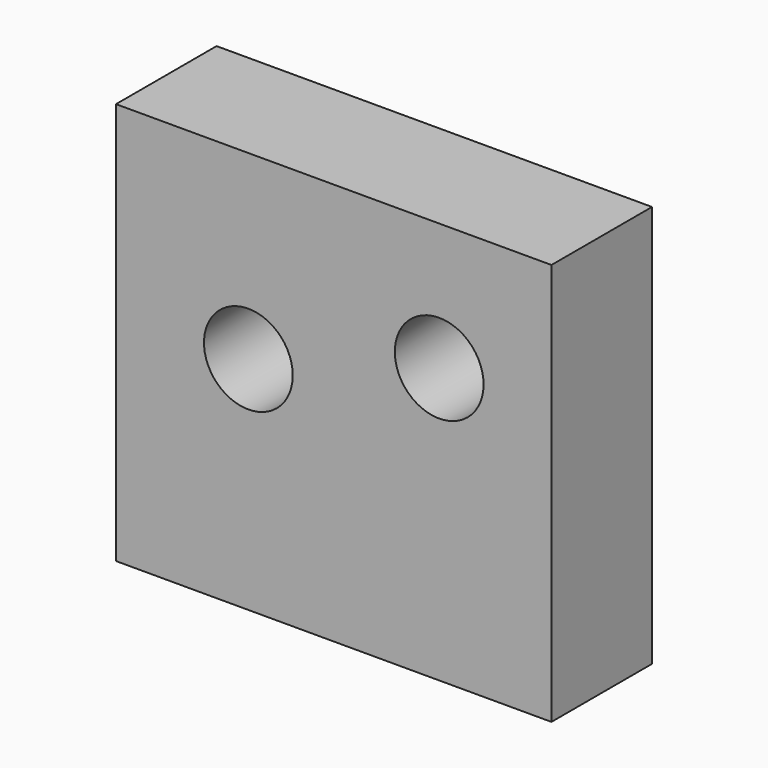
from build123d import *

# Parameters (mm, degrees)
F0_W     = 17.32
F0_H     = 16
F1_DEPTH = 5
F2_R     = 1.765
F4_DEPTH = 5
F3_R     = 1.765
F5_DEPTH = 5


with BuildPart() as f1:
    # F0 (on Front) → F1 (new body)
    with BuildSketch(Plane.XZ):
        with Locations((8.66, 8)):
            Rectangle(F0_W, F0_H)
    extrude(amount=F1_DEPTH)

    # F2 (on face) → F4 (cut, through all)
    with BuildSketch(Plane.XZ.offset(5)):
        with Locations((12.855, 10.935)):
            Circle(F2_R)
    extrude(amount=-F4_DEPTH, mode=Mode.SUBTRACT)

    # F3 (on face) → F5 (cut, through all)
    with BuildSketch(Plane.XZ.offset(5)):
        with Locations((5.265, 8.785)):
            Circle(F3_R)
    extrude(amount=-F5_DEPTH, mode=Mode.SUBTRACT)


solid = f1.part
